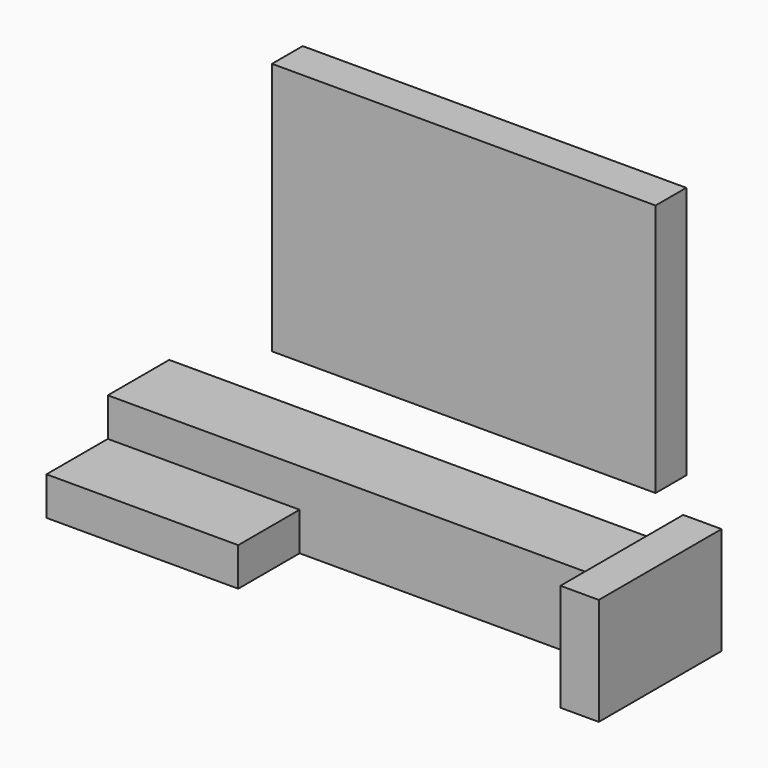
from build123d import *

# Parameters (mm, degrees)
F0_W     = 25
F0_H     = 10
F1_DEPTH = 5
F2_DEPTH = 10
F3_DEPTH = 14
F4_DEPTH = 33


with BuildPart() as f1:
    # F0 (on Top) → F1 (new body)
    with BuildSketch(Plane.XY):
        with Locations((-21, -19)):
            Rectangle(F0_W, F0_H)
    extrude(amount=F1_DEPTH)

    # F0 (on Top) → F2 (join)
    with BuildSketch(Plane.XY):
        Polygon((33.5, -14), (33.5, -4), (11.5, -4), (1.5, -4), (-8.5, -4), (-33.5, -4), (-33.5, -14), (-8.5, -14), align=None)
    extrude(amount=F2_DEPTH)

    # F0 (on Top) → F3 (join)
    with BuildSketch(Plane.XY):
        Polygon((38.5, -4), (33.5, -4), (33.5, -14), (33.5, -24), (38.5, -24), align=None)
    extrude(amount=F3_DEPTH)


with BuildPart() as f4:
    # F0 (on Top) → F4 (new body)
    with BuildSketch(Plane.XY):
        Polygon((11.5, 24), (-38.5, 24), (-38.5, 19), (-33.5, 19), (-8.5, 19), (1.5, 19), (11.5, 19), align=None)
    extrude(amount=F4_DEPTH)


solid = Compound([f1.part, f4.part])
